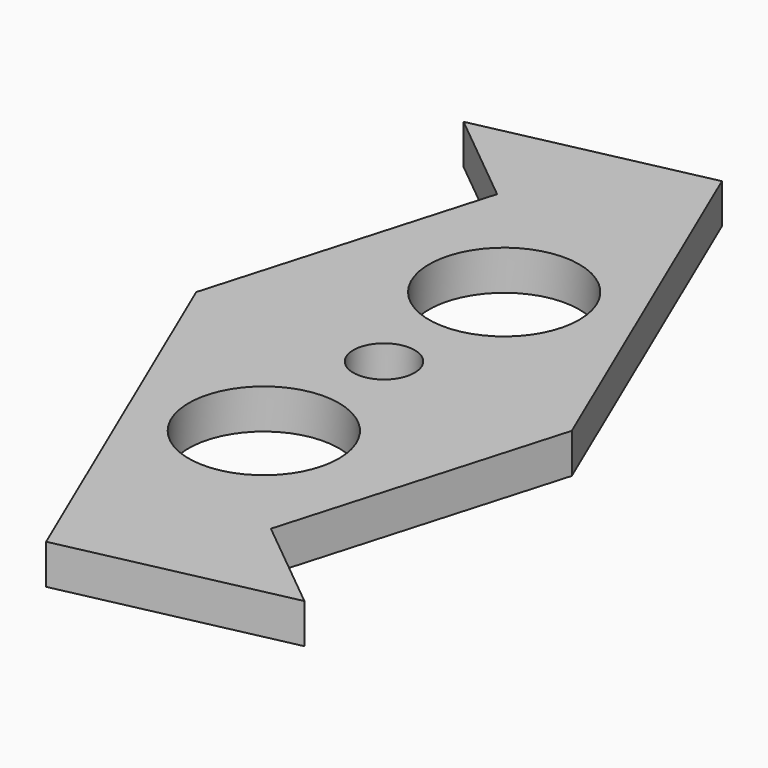
from build123d import *

# Parameters (mm, degrees)
F0_R     = 6
F0_R_2   = 2.45
F1_DEPTH = 1.5875


with BuildPart() as f1:
    # F0 (on Top) → F1 (new body, symmetric)
    with BuildSketch(Plane.XY):
        Polygon((8.6046455833, -22.0503536392), (15, 0), (1.2463501788, 32.1844235088), (-16.3468942976, 28.3794598042), (-8.6046455833, 22.0503536392), (-15, 0), (-1.2463501788, -32.1844235088), (16.3468942976, -28.3794598042), align=None)
        with Locations((0, -12)):
            Circle(F0_R, mode=Mode.SUBTRACT)
        Circle(F0_R_2, mode=Mode.SUBTRACT)
        with Locations((0, 12)):
            Circle(F0_R, mode=Mode.SUBTRACT)
    extrude(amount=F1_DEPTH, both=True)


solid = f1.part
